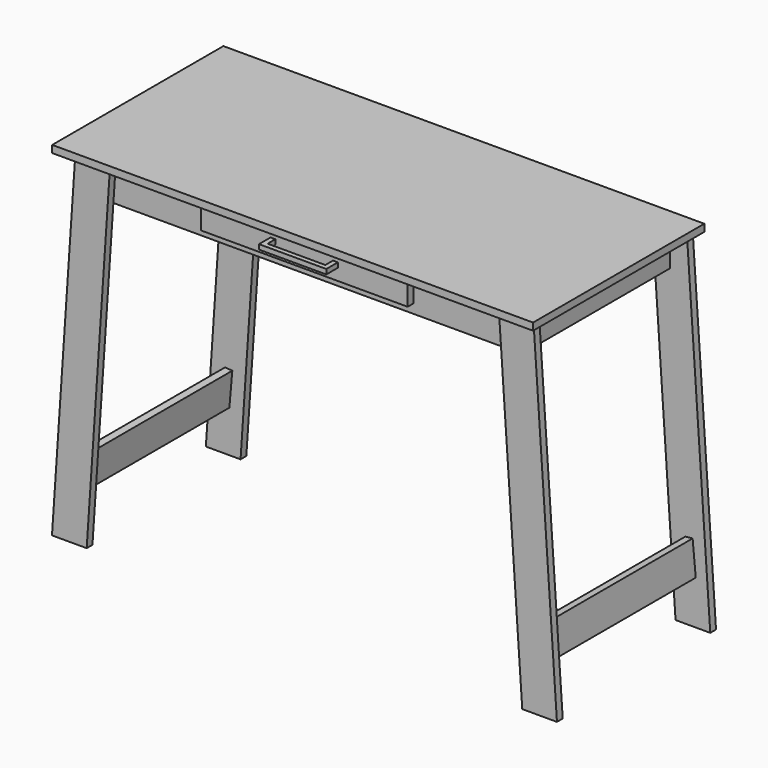
from build123d import *

# Parameters (mm, degrees)
F1_DEPTH  = 445
F2_DEPTH  = 15
F3_W      = 880
F3_H      = 80
F4_DEPTH  = 385
F6_DEPTH  = 15
F7_W      = 10
F7_H      = 10
F8_DEPTH  = 20
F10_W     = 40.9078299999
F10_H     = 28.1210877001
F11_DEPTH = 30
F12_W     = 140
F12_H     = 10
F13_DEPTH = 10
F15_W     = 10
F15_H     = 10
F16_DEPTH = 20


with BuildPart() as f1:
    # F0 (on Front) → F1 (new body)
    with BuildSketch(Plane.XZ):
        Polygon((500, -7.5), (500, 7.5), (-500, 7.5), (-500, -7.5), (-475.4847236312, -7.5), (-403.318375349, -7.5), (403.318375349, -7.5), (475.4847236312, -7.5), align=None)
    extrude(amount=F1_DEPTH)


with BuildPart() as f2:
    # F0 (on Front) → F2 (new body)
    with BuildSketch(Plane.XZ):
        Polygon((-403.318375349, -7.5), (-475.4847236312, -7.5), (-524.4559645653, -727.5), (-452.2896162831, -727.5), align=None)
    extrude(amount=F2_DEPTH)


with BuildPart() as f2b:
    # F0 (on Front) → F2, piece 2 (new body)
    with BuildSketch(Plane.XZ):
        Polygon((524.4559645653, -727.5), (475.4847236312, -7.5), (403.318375349, -7.5), (452.2896162831, -727.5), align=None)
    extrude(amount=F2_DEPTH)


with BuildPart() as f4:
    # F3 (on face) → F4 (new body)
    with BuildSketch(Plane.XZ.offset(15)):
        with Locations((0.5984505099, -47.5)):
            Rectangle(F3_W, F3_H)
    extrude(amount=F4_DEPTH)


with BuildPart() as f4b:
    # F3 (on face) → F4, piece 2 (new body)
    with BuildSketch(Plane.XZ.offset(15)):
        Polygon((-475.5418031599, -640.4457963005), (-469.4409011675, -570.7121674341), (-484.3838216389, -569.4048312929), (-490.4847236312, -639.1384601593), align=None)
    extrude(amount=F4_DEPTH)


with BuildPart() as f4c:
    # F3 (on face) → F4, piece 3 (new body)
    with BuildSketch(Plane.XZ.offset(15)):
        Polygon((487.775438711, -566.502135879), (472.8405915526, -567.898681744), (479.3578055892, -637.5946351502), (494.2926527476, -636.1980892852), align=None)
    extrude(amount=F4_DEPTH)


with BuildPart() as f6:
    # F5 (on face) → F6 (new body)
    with BuildSketch(Plane.XZ.offset(400)):
        Polygon((-403.318375349, -7.5), (-475.4847236312, -7.5), (-524.4559645658, -727.5), (-452.2896162837, -727.5), align=None)
    extrude(amount=F6_DEPTH)


with BuildPart() as f6b:
    # F5 (on face) → F6, piece 2 (new body)
    with BuildSketch(Plane.XZ.offset(400)):
        Polygon((525.652865585, -727.5), (476.681624651, -7.5), (404.5152763688, -7.5), (453.4865173028, -727.5), align=None)
    extrude(amount=F6_DEPTH)


with BuildPart() as f6c:
    # F5 (on face) → F6, piece 3 (new body)
    with BuildSketch(Plane.XZ.offset(400)):
        Polygon((215.2531991564, -10.9507972375), (0.5984505099, -10.9507972375), (-214.0562981367, -10.9507972375), (-214.0562981367, -68.4654787183), (0.5984505099, -68.4654787183), (215.2531991564, -68.4654787183), align=None)
    extrude(amount=F6_DEPTH)


with BuildPart() as f8:
    # F7 (on face) → F8 (new body)
    with BuildSketch(Plane.XZ.offset(415)):
        with Locations((-37.01236099, -39.2755609937)):
            Rectangle(F7_W, F7_H)
    extrude(amount=F8_DEPTH)


with BuildPart() as f8b:
    # F7 (on face) → F8, piece 2 (new body)
    with BuildSketch(Plane.XZ.offset(415)):
        with Locations((37.01236099, -39.2755609937)):
            Rectangle(F7_W, F7_H)
    extrude(amount=F8_DEPTH)


with BuildPart() as f11:
    # F10 (on face) → F11 (new body)
    with BuildSketch(Plane.XZ.offset(415)):
        with Locations((-175.1520335674, -39.3307115883)):
            Rectangle(F10_W, F10_H)
    extrude(amount=F11_DEPTH)


with BuildPart() as f13:
    # F12 (on face) → F13 (new body)
    with BuildSketch(Plane.XZ.offset(445)):
        with Locations((0, -39.3307115883)):
            Rectangle(F12_W, F12_H)
    extrude(amount=-F13_DEPTH)

    # F15 (on face) → F16 (join)
    with BuildSketch(Plane(origin=(0, -435, 0), x_dir=(-1, 0, 0), z_dir=(0, 1, 0))):
        with Locations((-65, -39.3307115883)):
            Rectangle(F15_W, F15_H)
        with Locations((65, -39.3307115883)):
            Rectangle(F15_W, F15_H)
    extrude(amount=F16_DEPTH)


solid = Compound([f1.part, f2.part, f2b.part, f4.part, f4b.part, f4c.part, f6.part, f6b.part, f6c.part, f13.part])
